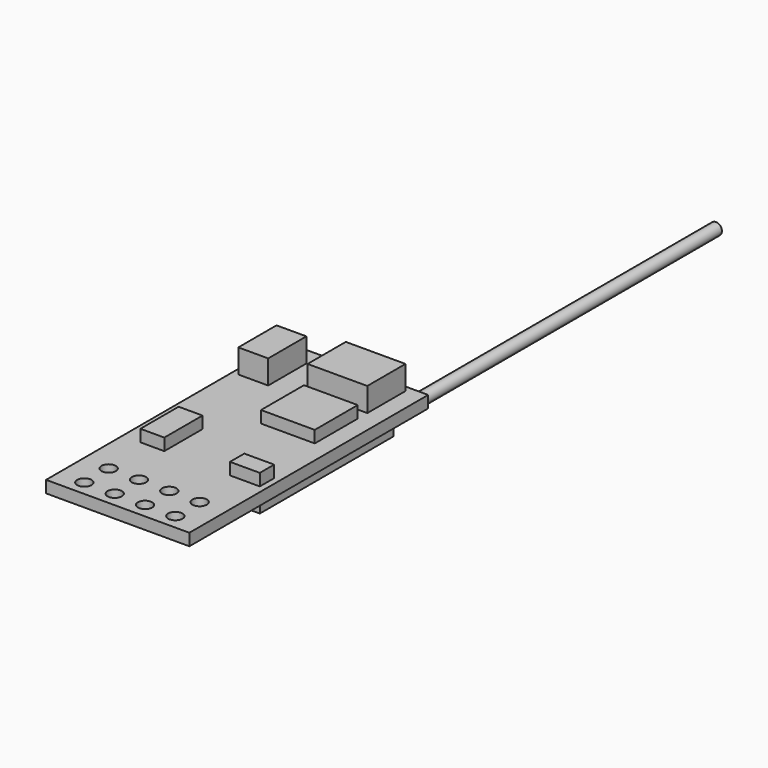
from build123d import *

# Parameters (mm, degrees)
F0_W     = 12
F0_H     = 25
F0_R     = 0.6
F2_DEPTH = 1
F1_W     = 4.5
F1_H     = 4.5
F3_DEPTH = 1
F1_W_2   = 2
F1_H_2   = 4
F1_W_3   = 2.5
F1_H_3   = 1.5
F1_W_4   = 5
F4_DEPTH = 2
F5_W     = 11
F5_H     = 14
F6_DEPTH = 1
F7_R     = 0.5
F8_DEPTH = 32
F9_DEPTH = 2


with BuildPart() as f2:
    # F0 (on Top) → F2 (new body)
    with BuildSketch(Plane.XY):
        with Locations((0, 12.5)):
            Rectangle(F0_W, F0_H)
        with Locations((-3.81, 1.27)):
            Circle(F0_R, mode=Mode.SUBTRACT)
        with Locations((-3.81, 3.81)):
            Circle(F0_R, mode=Mode.SUBTRACT)
        with Locations((-1.27, 1.27)):
            Circle(F0_R, mode=Mode.SUBTRACT)
        with Locations((-1.27, 3.81)):
            Circle(F0_R, mode=Mode.SUBTRACT)
        with Locations((1.27, 1.27)):
            Circle(F0_R, mode=Mode.SUBTRACT)
        with Locations((1.27, 3.81)):
            Circle(F0_R, mode=Mode.SUBTRACT)
        with Locations((3.81, 1.27)):
            Circle(F0_R, mode=Mode.SUBTRACT)
        with Locations((3.81, 3.81)):
            Circle(F0_R, mode=Mode.SUBTRACT)
    extrude(amount=-F2_DEPTH)

    # F5 (on face) → F6 (join)
    with BuildSketch(Plane(origin=(0, 0, -1), x_dir=(1, 0, 0), z_dir=(0, 0, -1))):
        with Locations((0, -15)):
            Rectangle(F5_W, F5_H)
    extrude(amount=F6_DEPTH)


with BuildPart() as f3:
    # F1 (on Top) → F3 (new body)
    with BuildSketch(Plane.XY):
        with Locations((2.25, 17.25)):
            Rectangle(F1_W, F1_H)
    extrude(amount=F3_DEPTH)


with BuildPart() as f3b:
    # F1 (on Top) → F3, piece 2 (new body)
    with BuildSketch(Plane.XY):
        with Locations((-3.5, 10)):
            Rectangle(F1_W_2, F1_H_2)
    extrude(amount=F3_DEPTH)


with BuildPart() as f3c:
    # F1 (on Top) → F3, piece 3 (new body)
    with BuildSketch(Plane.XY):
        with Locations((4.25, 8.75)):
            Rectangle(F1_W_3, F1_H_3)
    extrude(amount=F3_DEPTH)


with BuildPart() as f4:
    # F1 (on Top) → F4 (new body)
    with BuildSketch(Plane.XY):
        with Locations((2, 22.5)):
            Rectangle(F1_W_4, F1_H_2)
    extrude(amount=F4_DEPTH)


with BuildPart() as f4b:
    # F1 (on Top) → F4, piece 2 (new body)
    with BuildSketch(Plane.XY):
        with Locations((-4.25, 21.5)):
            Rectangle(F1_W_3, F1_H_2)
    extrude(amount=F4_DEPTH)


with BuildPart() as f8:
    # F7 (on face) → F8 (new body)
    with BuildSketch(Plane(origin=(0, 25, 0), x_dir=(-1, 0, 0), z_dir=(0, 1, 0))):
        with Locations((-4.5, -1.25)):
            Circle(F7_R)
        with BuildLine():
            Line((-4.75, -1), (-4.75, -1.25))
            ThreePointArc((-4.75, -1.25), (-4.5, -1.5), (-4.25, -1.25))
            Line((-4.25, -1.25), (-4.25, -1))
            Line((-4.25, -1), (-4.75, -1))
        make_face()
    extrude(amount=F8_DEPTH)

    # F7 (on face) → F9 (join)
    with BuildSketch(Plane(origin=(0, 25, 0), x_dir=(-1, 0, 0), z_dir=(0, 1, 0))):
        with BuildLine():
            Line((-4.75, -1), (-4.75, -1.25))
            ThreePointArc((-4.75, -1.25), (-4.5, -1.5), (-4.25, -1.25))
            Line((-4.25, -1.25), (-4.25, -1))
            Line((-4.25, -1), (-4.75, -1))
        make_face()
    extrude(amount=-F9_DEPTH)


solid = Compound([f2.part, f3.part, f3b.part, f3c.part, f4.part, f4b.part, f8.part])
